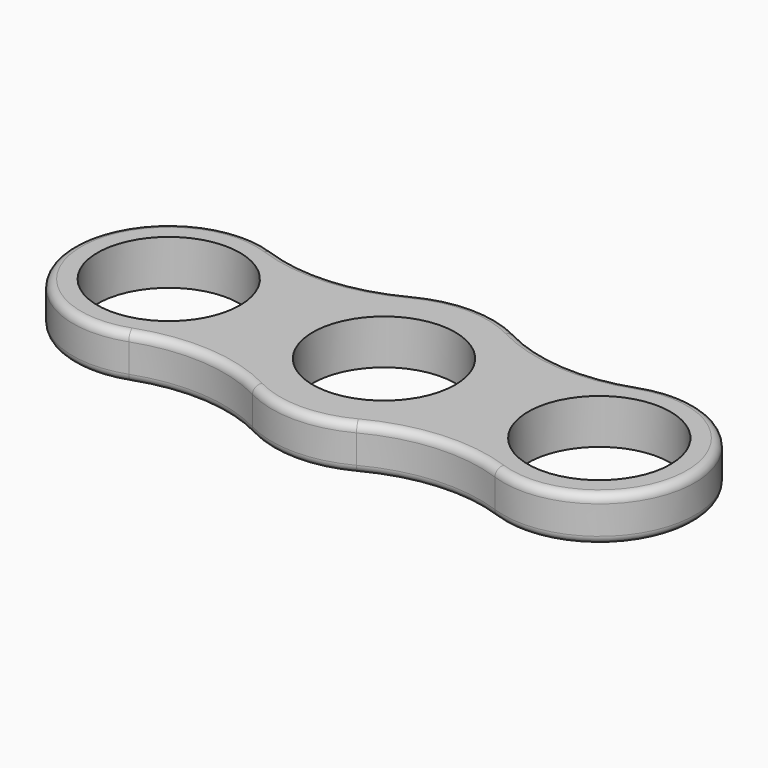
from build123d import *

# Parameters (mm, degrees)
F0_R     = 11.049
F1_DEPTH = 6.9596
F2_R     = 1.27


with BuildPart() as f1:
    # F0 (on Top) → F1 (new body)
    with BuildSketch(Plane.XY):
        with BuildLine():
            ThreePointArc((-28.402701, -13.993101), (-18.089279, -12.574631), (-8.07308, -15.412676))
            ThreePointArc((-8.07308, -15.412676), (0, -17.399), (8.07308, -15.412676))
            ThreePointArc((8.07308, -15.412676), (18.089279, -12.574631), (28.402701, -13.993101))
            ThreePointArc((28.402701, -13.993101), (48.26, 0), (28.402701, 13.993101))
            ThreePointArc((28.402701, 13.993101), (18.089279, 12.574631), (8.07308, 15.412676))
            ThreePointArc((8.07308, 15.412676), (0, 17.399), (-8.07308, 15.412676))
            ThreePointArc((-8.07308, 15.412676), (-18.089279, 12.574631), (-28.402701, 13.993101))
            ThreePointArc((-28.402701, 13.993101), (-48.26, 0), (-28.402701, -13.993101))
        make_face()
        with Locations((-33.401, 0)):
            Circle(F0_R, mode=Mode.SUBTRACT)
        Circle(F0_R, mode=Mode.SUBTRACT)
        with Locations((33.401, 0)):
            Circle(F0_R, mode=Mode.SUBTRACT)
    extrude(amount=F1_DEPTH)

    # F2
    f2_edges = [f1.edges().sort_by_distance(p)[0] for p in [
        (-18.089279, -12.574631, 6.9596),
        (-48.26, 0, 0),
    ]]
    fillet(f2_edges, radius=F2_R)


solid = f1.part
